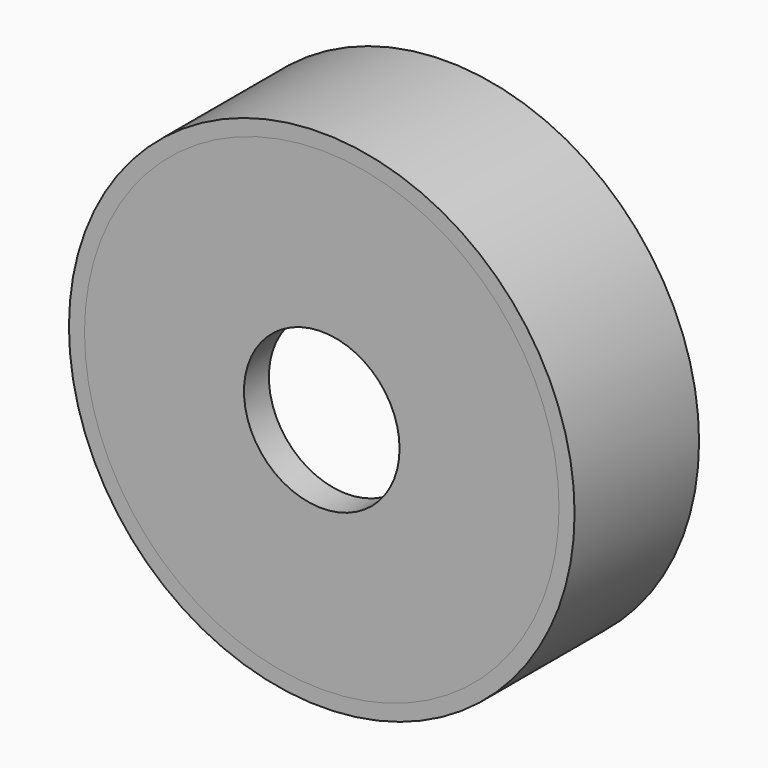
from build123d import *

# Parameters (mm, degrees)
F0_R     = 16.25
F0_R_2   = 15.25
F1_DEPTH = 10
F2_R     = 15.25
F2_R_2   = 5
F3_DEPTH = 8
F4_DEPTH = 2


with BuildPart() as f1:
    # F0 (on Front) → F1 (new body)
    with BuildSketch(Plane.XZ):
        Circle(F0_R)
        Circle(F0_R_2, mode=Mode.SUBTRACT)
    extrude(amount=-F1_DEPTH)

    # F2 (on Front) → F3 (cut)
    with BuildSketch(Plane.XZ):
        Circle(F2_R)
        Circle(F2_R_2, mode=Mode.SUBTRACT)
    extrude(amount=F3_DEPTH, mode=Mode.SUBTRACT)


with BuildPart() as f4:
    # F2 (on Front) → F4 (new body)
    with BuildSketch(Plane.XZ):
        Circle(F2_R)
        Circle(F2_R_2, mode=Mode.SUBTRACT)
    extrude(amount=-F4_DEPTH)


solid = Compound([f1.part, f4.part])
